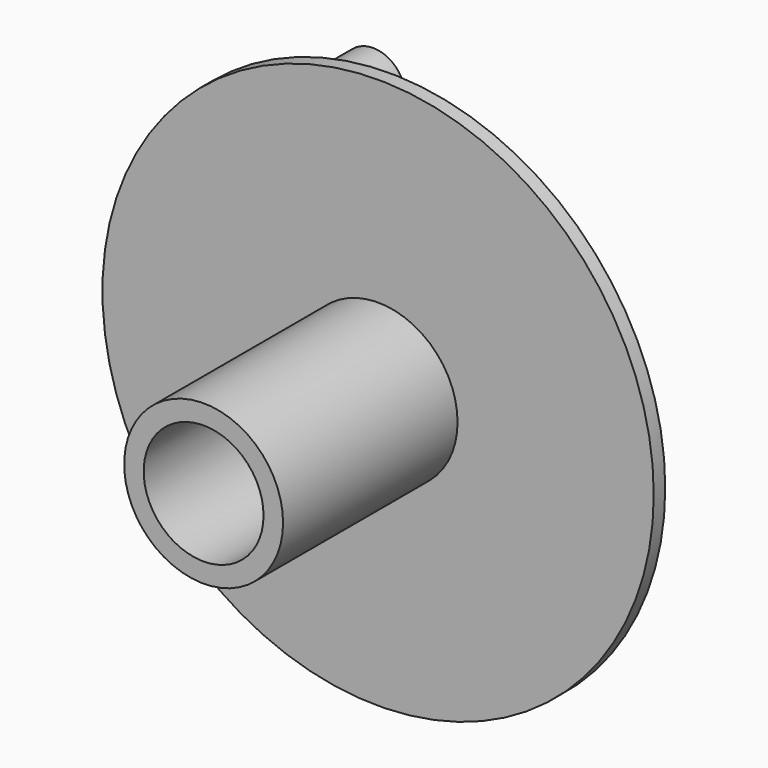
from build123d import *

# Parameters (mm, degrees)
F0_R     = 29.21
F0_R_2   = 8.4188415788
F1_DEPTH = 1.524
F0_R_3   = 6.35
F2_DEPTH = 24.638
F3_R     = 3.3954821981
F4_DEPTH = 8.382


with BuildPart() as f1:
    # F0 (on Front) → F1 (new body)
    with BuildSketch(Plane.XZ):
        Circle(F0_R)
        Circle(F0_R_2, mode=Mode.SUBTRACT)
    extrude(amount=F1_DEPTH)

    # F0 (on Front) → F2 (join)
    with BuildSketch(Plane.XZ):
        Circle(F0_R_2)
        Circle(F0_R_3, mode=Mode.SUBTRACT)
    extrude(amount=F2_DEPTH)

    # F3 (on face) → F4 (join)
    with BuildSketch(Plane(origin=(0, 0, 0), x_dir=(-1, 0, 0), z_dir=(0, 1, 0))):
        with Locations((8.4494473413, 21.9940822572)):
            Circle(F3_R)
    extrude(amount=F4_DEPTH)


solid = f1.part
